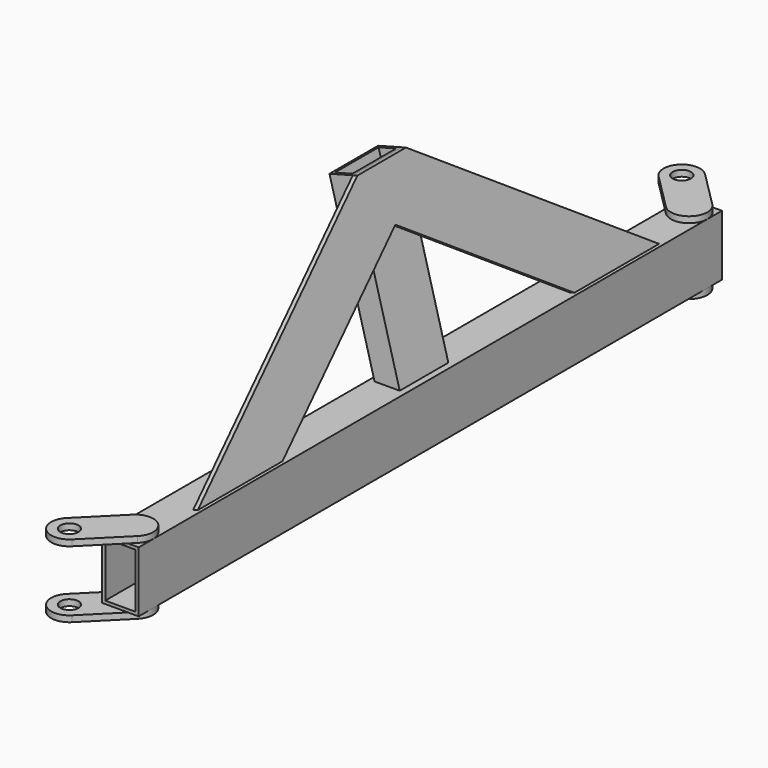
from build123d import *

# Parameters (mm, degrees)
F0_W           = 76.2
F0_H           = 127
F0_W_2         = 63.5
F0_H_2         = 114.3
F1_DEPTH       = 762
F2_R           = 19.05
F3_DEPTH       = 12.7
F9_W           = 50.8
F9_H           = 127
F9_W_2         = 38.1
F9_H_2         = 114.3
F10_DEPTH      = 381
F12_DEPTH      = 9.525
F12_DEPTH_BACK = 0.254


with BuildPart() as f1:
    # F0 (on Front) → F1 (new body, symmetric)
    with BuildSketch(Plane.XZ):
        with Locations((38.1, 0)):
            Rectangle(F0_W, F0_H)
        with Locations((38.1, 0)):
            Rectangle(F0_W_2, F0_H_2, mode=Mode.SUBTRACT)
    extrude(amount=F1_DEPTH, both=True)

    # F2 (on face) → F3 (join)
    with BuildSketch(Plane.XY.offset(63.5)):
        with BuildLine():
            ThreePointArc((-11.159232, 827.040768), (-65.040768, 827.040768), (-65.040768, 773.159232))
            Line((-65.040768, 773.159232), (11.159232, 696.959232))
            ThreePointArc((11.159232, 696.959232), (65.040768, 696.959232), (65.040768, 750.840768))
            Line((65.040768, 750.840768), (-11.159232, 827.040768))
        make_face()
        with Locations((-38.1, 800.1)):
            Circle(F2_R, mode=Mode.SUBTRACT)
    extrude(amount=F3_DEPTH)

    # F4: F1 across plane


with BuildPart() as f1_1:
    add(f1.part)
    add(f1.part.mirror(Plane.XY))

    # F9 (on face) → F10 (join)
    with BuildSketch(Plane(origin=(-10.770568, 0, 40.196307), x_dir=(0.965926, 0, 0.258819), z_dir=(-0.258819, 0, 0.965926))):
        with Locations((51.938557, 0)):
            Rectangle(F9_W, F9_H)
        with Locations((51.938557, 0)):
            Rectangle(F9_W_2, F9_H_2, mode=Mode.SUBTRACT)
    extrude(amount=F10_DEPTH)

    # F11 (on face) → F12 (join, two sides)
    with BuildSketch(Plane(origin=(74.70331, 0, 20.016692), x_dir=(0, 1, 0), z_dir=(0.965926, 0, 0.258819))) as f12_sk:
        Polygon((0, 422.614279), (-63.5, 422.614279), (-602.764468, 45.017233), (-381.346724, 45.017233), (0, 312.039085), align=None)
    extrude(amount=F12_DEPTH)
    extrude(f12_sk.sketch, amount=-F12_DEPTH_BACK)

    # F13: F1 across face


with BuildPart() as f1_2:
    add(f1_1.part)
    add(f1_1.part.mirror(Plane(origin=(-15.767609, 0, 376.059646), x_dir=(-1, 0, 0), z_dir=(0, 1, 0))))


solid = f1_2.part
